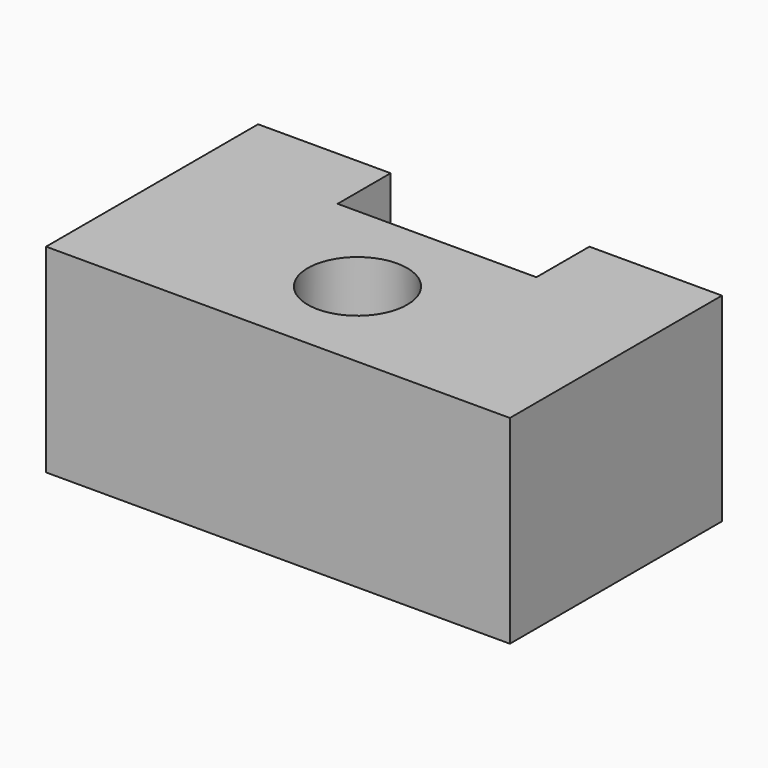
from build123d import *

# Parameters (mm, degrees)
F0_W     = 22.225
F0_H     = 12.7
F0_R     = 2.38125
F1_DEPTH = 9.525
F2_R     = 1.35255
F3_DEPTH = 9.525
F4_W     = 9.525
F4_H     = 3.175
F5_DEPTH = 9.525


with BuildPart() as f1:
    # F0 (on Top) → F1 (new body)
    with BuildSketch(Plane.XY):
        with Locations((11.1125, 6.35)):
            Rectangle(F0_W, F0_H)
        with Locations((11.1125, 4.7625)):
            Circle(F0_R, mode=Mode.SUBTRACT)
    extrude(amount=F1_DEPTH)

    # F2 (on face) → F3 (cut)
    with BuildSketch(Plane(origin=(0, 12.7, 0), x_dir=(-1, 0, 0), z_dir=(0, 1, 0))):
        with Locations((-3.175, 4.7625)):
            Circle(F2_R)
        with Locations((-19.05, 4.7625)):
            Circle(F2_R)
    extrude(amount=-F3_DEPTH, mode=Mode.SUBTRACT)

    # F4 (on face) → F5 (cut, through all)
    with BuildSketch(Plane(origin=(0, 0, 0), x_dir=(1, 0, 0), z_dir=(0, 0, -1))):
        with Locations((11.1125, -11.1125)):
            Rectangle(F4_W, F4_H)
    extrude(amount=-F5_DEPTH, mode=Mode.SUBTRACT)


solid = f1.part
